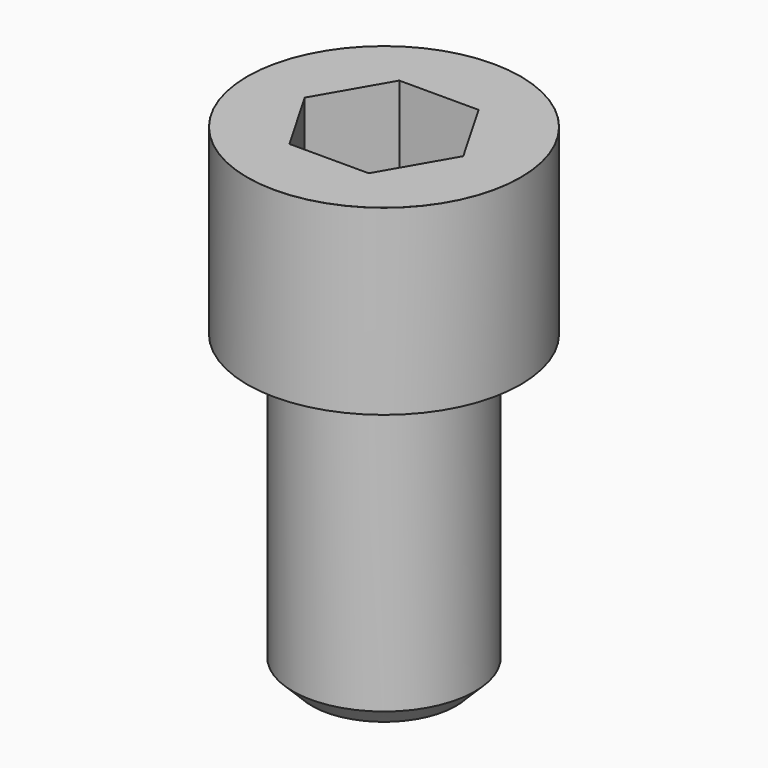
from build123d import *

# Parameters (mm, degrees)
POCKET_DEPTH = 36.15


with BuildPart() as part:
    # Sketch → Revolve (revolve)
    with BuildSketch(Plane.YZ):
        with BuildLine():
            Line((23.999, 0), (36, 0))
            Line((36, 0), (36, 47.97229))
            ThreePointArc((36, 47.97229), (35.991884, 47.991884), (35.97229, 48))
            Line((35.97229, 48), (0, 48))
            Line((0, -80), (0, 48))
            Line((19, -80), (0, -80))
            Line((24, -75), (19, -80))
            Line((24, -1), (24, -75))
            Line((23.999, 0), (24, -1))
        make_face()
    revolve(axis=Axis((0, 0, 0), (0, 0, 1)))

    # Sketch001 → Pocket (cut)
    with BuildSketch(Plane.XY.offset(48)):
        Polygon((20.871212, 0), (10.435606, 18.075), (-10.435606, 18.075), (-20.871212, 0), (-10.435606, -18.075), (10.435606, -18.075), align=None)
    extrude(amount=-POCKET_DEPTH, mode=Mode.SUBTRACT)


solid = part.part
